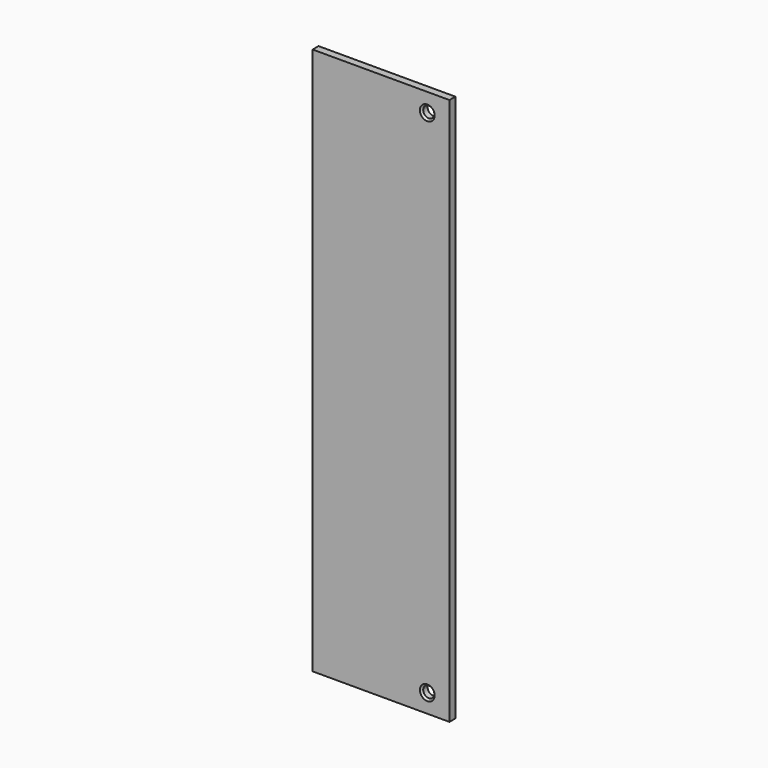
from build123d import *

# Parameters (mm, degrees)
F0_W     = 18.5
F0_H     = 74
F0_R     = 1
F0_R_2   = 0.75
F1_DEPTH = 1
F2_SIZE  = 0.25


with BuildPart() as f1:
    # F0 (on Front) → F1 (new body)
    with BuildSketch(Plane.XZ):
        Rectangle(F0_W, F0_H)
        with Locations((6.25, -34.5)):
            Circle(F0_R, mode=Mode.SUBTRACT)
        with Locations((6.25, 34.5)):
            Circle(F0_R, mode=Mode.SUBTRACT)
        with Locations((6.25, -34.5)):
            Circle(F0_R)
        with Locations((6.25, -34.5)):
            Circle(F0_R_2, mode=Mode.SUBTRACT)
        with Locations((6.25, 34.5)):
            Circle(F0_R)
        with Locations((6.25, 34.5)):
            Circle(F0_R_2, mode=Mode.SUBTRACT)
    extrude(amount=-F1_DEPTH)

    # F2
    f2_edges = [f1.edges().sort_by_distance(p)[0] for p in [
        (5.5, 0, -34.5),
        (5.5, 0, 34.5),
    ]]
    chamfer(f2_edges, length=F2_SIZE)


solid = f1.part
